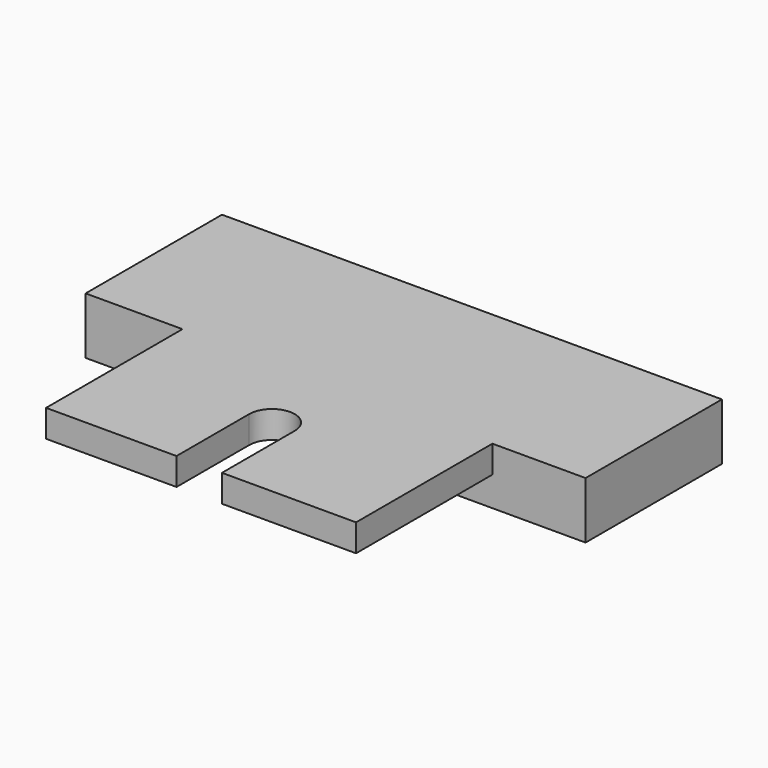
from build123d import *

# Parameters (mm, degrees)
BOX017_W          = 4
BOX017_H          = 16
BOX017_DEPTH      = 10
CYLINDER022_R     = 2
CYLINDER022_DEPTH = 10
BOX016_W          = 8.2
BOX016_H          = 15
BOX016_DEPTH      = 10
BOX015_W          = 8.52
BOX015_H          = 15
BOX015_DEPTH      = 10
BOX014_W          = 44
BOX014_H          = 15
BOX014_DEPTH      = 2.6
BOX013_W          = 44
BOX013_H          = 30
BOX013_DEPTH      = 5


with BuildPart() as cube017:
    # Box017 → Box017 (new body)
    with BuildSketch(Plane(origin=(20, -8, 0), x_dir=(1, 0, 0), z_dir=(0, 0, 1))):
        with Locations((2, 8)):
            Rectangle(BOX017_W, BOX017_H)
    extrude(amount=BOX017_DEPTH)


with BuildPart() as fusion022:
    # Cylinder022 → Cylinder022 (new body)
    with BuildSketch(Plane(origin=(22, 8, 0), x_dir=(1, 0, 0), z_dir=(0, 0, 1))):
        Circle(CYLINDER022_R)
    extrude(amount=CYLINDER022_DEPTH)

    # Fusion022: union Cube017
    add(cube017.part)


with BuildPart() as cube016:
    # Box016 → Box016 (new body)
    with BuildSketch(Plane(origin=(35.8, 0, 0), x_dir=(1, 0, 0), z_dir=(0, 0, 1))):
        with Locations((4.1, 7.5)):
            Rectangle(BOX016_W, BOX016_H)
    extrude(amount=BOX016_DEPTH)


with BuildPart() as cube015:
    # Box015 → Box015 (new body)
    with BuildSketch(Plane.XY):
        with Locations((4.26, 7.5)):
            Rectangle(BOX015_W, BOX015_H)
    extrude(amount=BOX015_DEPTH)


with BuildPart() as cube014:
    # Box014 → Box014 (new body)
    with BuildSketch(Plane.XY):
        with Locations((22, 7.5)):
            Rectangle(BOX014_W, BOX014_H)
    extrude(amount=BOX014_DEPTH)


with BuildPart() as exterior_part1:
    # Box013 → Box013 (new body)
    with BuildSketch(Plane.XY):
        with Locations((22, 15)):
            Rectangle(BOX013_W, BOX013_H)
    extrude(amount=BOX013_DEPTH)

    # Cut007002002: cut Cube014
    add(cube014.part, mode=Mode.SUBTRACT)

    # Cut007002003: cut Cube015
    add(cube015.part, mode=Mode.SUBTRACT)

    # Cut007002004: cut Cube016
    add(cube016.part, mode=Mode.SUBTRACT)

    # Cut007002005: cut Fusion022
    add(fusion022.part, mode=Mode.SUBTRACT)


with BuildPart() as exterior_part1_1:
    # Cut007002005 placement: moved
    add(exterior_part1.part.moved(Location((0, 21, 0))))


solid = exterior_part1_1.part
